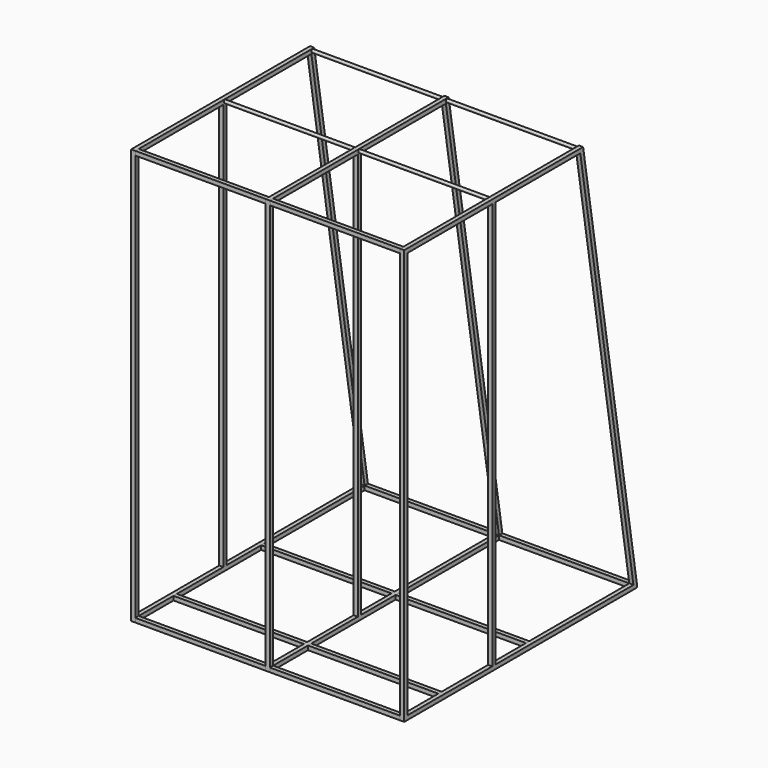
from build123d import *

# Parameters (mm, degrees)
F0_W     = 25.4
F0_H     = 2489.2
F1_DEPTH = 25.4
F6_W     = 25.4
F6_H     = 25.4
F7_DEPTH = 796.925
F6_R     = 9.525


with BuildPart() as f1:
    # F0 (on Right) → F1 (new body)
    with BuildSketch(Plane.YZ):
        with Locations((12.7, 1244.6)):
            Rectangle(F0_W, F0_H)
        Polygon((25.4, 0), (0, 0), (0, -25.4), (1778, -25.4), (1778, 0), (1752.2637007088, 0), (698.5, 0), (673.1, 0), align=None)
        Polygon((0, 2514.6), (0, 2489.2), (25.4, 2489.2), (673.1, 2489.2), (698.5, 2489.2), (1345.8637007088, 2489.2), (1371.6, 2489.2), (1367.4530612245, 2514.6), align=None)
        Polygon((1752.2637007088, 0), (1778, 0), (1371.6, 2489.2), (1345.8637007088, 2489.2), align=None)
        with Locations((685.8, 1244.6)):
            Rectangle(F0_W, F0_H)
    extrude(amount=F1_DEPTH)


with BuildPart() as f3_1:
    # F3: instance of F1
    add(f1.part.mirror(Plane(origin=(-809.625, 769.7711953275, 1196.3676158974), x_dir=(0, 1, 0), z_dir=(1, 0, 0))))


with BuildPart() as f5_1:
    # F5: instance of F1
    add(f1.part.mirror(Plane(origin=(-398.4625, 769.7711953275, 1196.3676158974), x_dir=(0, 1, 0), z_dir=(1, 0, 0))))


with BuildPart() as f7:
    # F6 (on face) → F7 (new body, through all)
    with BuildSketch(Plane.YZ.offset(-796.925)):
        with Locations((1765.3, -12.7)):
            Rectangle(F6_W, F6_H)
    extrude(amount=F7_DEPTH)


with BuildPart() as f7b:
    # F6 (on face) → F7, piece 2 (new body, through all)
    with BuildSketch(Plane.YZ.offset(-796.925)):
        with Locations((12.7, -12.7)):
            Rectangle(F6_W, F6_H)
    extrude(amount=F7_DEPTH)


with BuildPart() as f7c:
    # F6 (on face) → F7, piece 3 (new body, through all)
    with BuildSketch(Plane.YZ.offset(-796.925)):
        with Locations((12.7, 2501.9)):
            Rectangle(F6_W, F6_H)
    extrude(amount=F7_DEPTH)


with BuildPart() as f7d:
    # F6 (on face) → F7, piece 4 (new body, through all)
    with BuildSketch(Plane.YZ.offset(-796.925)):
        with Locations((304.8, -12.7)):
            Rectangle(F6_W, F6_H)
    extrude(amount=F7_DEPTH)


with BuildPart() as f7e:
    # F6 (on face) → F7, piece 5 (new body, through all)
    with BuildSketch(Plane.YZ.offset(-796.925)):
        with Locations((974.725, -12.7)):
            Rectangle(F6_W, F6_H)
    extrude(amount=F7_DEPTH)


with BuildPart() as f7f:
    # F6 (on face) → F7, piece 6 (new body, through all)
    with BuildSketch(Plane.YZ.offset(-796.925)):
        with Locations((685.8, 2501.9)):
            Circle(F6_R)
    extrude(amount=F7_DEPTH)


with BuildPart() as f7g:
    # F6 (on face) → F7, piece 7 (new body, through all)
    with BuildSketch(Plane.YZ.offset(-796.925)):
        with Locations((1355.725, 2501.9)):
            Circle(F6_R)
    extrude(amount=F7_DEPTH)


with BuildPart() as f9_1:
    # F9: instance of F7c
    add(f7c.part.mirror(Plane(origin=(-809.625, 769.7711953275, 1196.3676158974), x_dir=(0, 1, 0), z_dir=(1, 0, 0))))


with BuildPart() as f9_2:
    # F9: instance of F7f
    add(f7f.part.mirror(Plane(origin=(-809.625, 769.7711953275, 1196.3676158974), x_dir=(0, 1, 0), z_dir=(1, 0, 0))))


with BuildPart() as f9_3:
    # F9: instance of F7g
    add(f7g.part.mirror(Plane(origin=(-809.625, 769.7711953275, 1196.3676158974), x_dir=(0, 1, 0), z_dir=(1, 0, 0))))


with BuildPart() as f9_4:
    # F9: instance of F7
    add(f7.part.mirror(Plane(origin=(-809.625, 769.7711953275, 1196.3676158974), x_dir=(0, 1, 0), z_dir=(1, 0, 0))))


with BuildPart() as f9_5:
    # F9: instance of F7e
    add(f7e.part.mirror(Plane(origin=(-809.625, 769.7711953275, 1196.3676158974), x_dir=(0, 1, 0), z_dir=(1, 0, 0))))


with BuildPart() as f9_6:
    # F9: instance of F7d
    add(f7d.part.mirror(Plane(origin=(-809.625, 769.7711953275, 1196.3676158974), x_dir=(0, 1, 0), z_dir=(1, 0, 0))))


with BuildPart() as f9_7:
    # F9: instance of F7b
    add(f7b.part.mirror(Plane(origin=(-809.625, 769.7711953275, 1196.3676158974), x_dir=(0, 1, 0), z_dir=(1, 0, 0))))


solid = Compound([f1.part, f3_1.part, f5_1.part, f7.part, f7b.part, f7c.part, f7d.part, f7e.part, f7f.part, f7g.part, f9_1.part, f9_2.part, f9_3.part, f9_4.part, f9_5.part, f9_6.part, f9_7.part])
